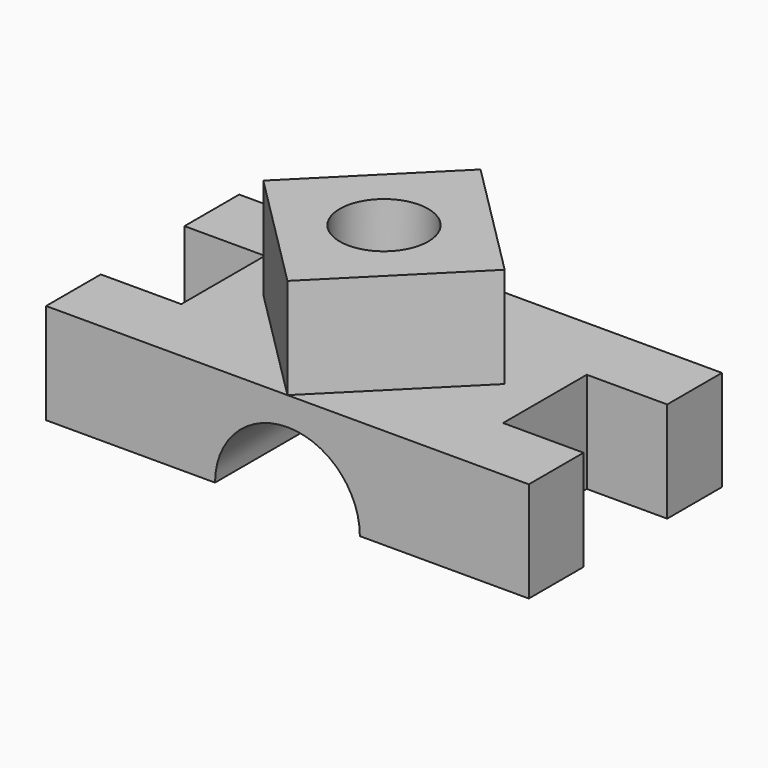
from build123d import *

# Parameters (mm, degrees)
F1_DEPTH = 600
F2_W     = 200
F2_H     = 260
F3_DEPTH = 250.001
F4_R     = 110
F5_DEPTH = 250


with BuildPart() as f1:
    # F0 (on Front) → F1 (new body)
    with BuildSketch(Plane.XZ):
        with BuildLine():
            Line((600, 125), (-600, 125))
            Line((-600, 125), (-600, -125))
            Line((-600, -125), (-180, -125))
            ThreePointArc((-180, -125), (0, 55), (180, -125))
            Line((180, -125), (600, -125))
            Line((600, -125), (600, 125))
        make_face()
    extrude(amount=F1_DEPTH)

    # F2 (on face) → F3 (cut, through all)
    with BuildSketch(Plane.XY.offset(125)):
        with Locations((-500, -300)):
            Rectangle(F2_W, F2_H)
        with Locations((500, -300)):
            Rectangle(F2_W, F2_H)
    extrude(amount=-F3_DEPTH, mode=Mode.SUBTRACT)

    # F4 (on face) → F5 (join)
    with BuildSketch(Plane.XY.offset(125)):
        Polygon((300, -300), (0, 0), (-300, -300), (0, -600), align=None)
        with Locations((0, -300)):
            Circle(F4_R, mode=Mode.SUBTRACT)
    extrude(amount=F5_DEPTH)


solid = f1.part
